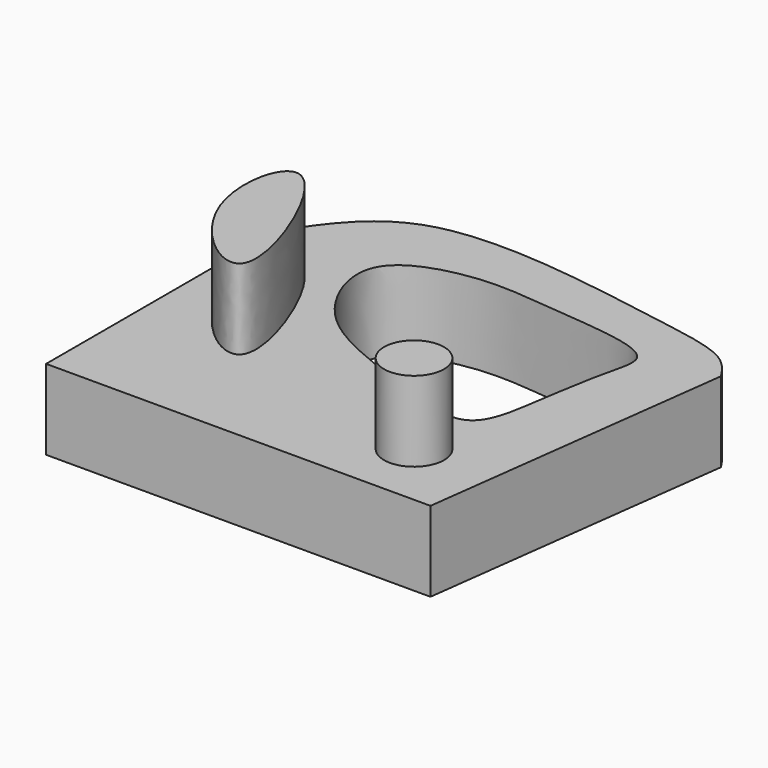
from build123d import *

# Parameters (mm, degrees)
F1_DEPTH = 25
F2_R     = 9.3634847823
F3_DEPTH = 25
F5_DEPTH = 25.0010001


with BuildPart() as f1:
    # F0 (on Top) → F1 (new body)
    with BuildSketch(Plane.XY):
        with BuildLine():
            add(Edge.make_bspline(
                [(-79.3894366242, 49.2495611187), (-72.4487858891, 59.7006682497), (-55.9109325235, 84.6030706093), (18.2214634523, 70.9133582155), (46.520864459, 66.8096161182), (51.3598815067, 59.6137751786), (53.1687014617, 56.9239767019)],
                knots=[0, 0, 0, 0, 0.2655555977, 0.6327532825, 0.8627235274, 1, 1, 1, 1], degree=3))
            Line((-79.3894366242, 49.2495611187), (-79.3894366242, -40.7504388813))
            Line((-79.3894366242, -40.7504388813), (40.6105633758, -40.7504388813))
            Line((40.6105633758, -40.7504388813), (53.1687014617, 56.9239767019))
        make_face()
    extrude(amount=F1_DEPTH)

    # F2 (on face) → F3 (join)
    with BuildSketch(Plane.XY.offset(25)):
        with BuildLine():
            add(Edge.make_bspline(
                [(-68.4924796224, 13.4779475629), (-73.2013960324, 26.1732871362), (-65.1865988861, 60.6756556527), (-29.4825992699, -27.2046852314), (-63.3027239973, -0.5137448403), (-68.4924796224, 13.4779475629)],
                knots=[0, 0, 0, 0, 0.2868579106, 0.6838503117, 1, 1, 1, 1], degree=3))
        make_face()
        with Locations((18.746599555, -19.8493413627)):
            Circle(F2_R)
    extrude(amount=F3_DEPTH)

    # F4 (on face) → F5 (cut, through all)
    with BuildSketch(Plane.XY.offset(25)):
        with BuildLine():
            add(Edge.make_bspline(
                [(-48.5174916685, 49.199540168), (-51.8874573928, 42.2635819095), (-42.7266234761, 18.9530569821), (-13.2466912969, 8.3316402308), (22.4713013361, -7.2779460259), (26.2909551235, 18.3916988976), (29.7931574833, 40.9326509963), (34.8096044104, 56.5420765879), (-2.6038214213, 58.7114569398), (-23.8590426565, 62.055981011), (-45.225788516, 55.9744208443), (-48.5174916685, 49.199540168)],
                knots=[0, 0, 0, 0, 0.1142450877, 0.2447986171, 0.3692154983, 0.4659486341, 0.5775317424, 0.6507798957, 0.7747624956, 0.8884080889, 1, 1, 1, 1], degree=3))
        make_face()
    extrude(amount=-F5_DEPTH, mode=Mode.SUBTRACT)


solid = f1.part
